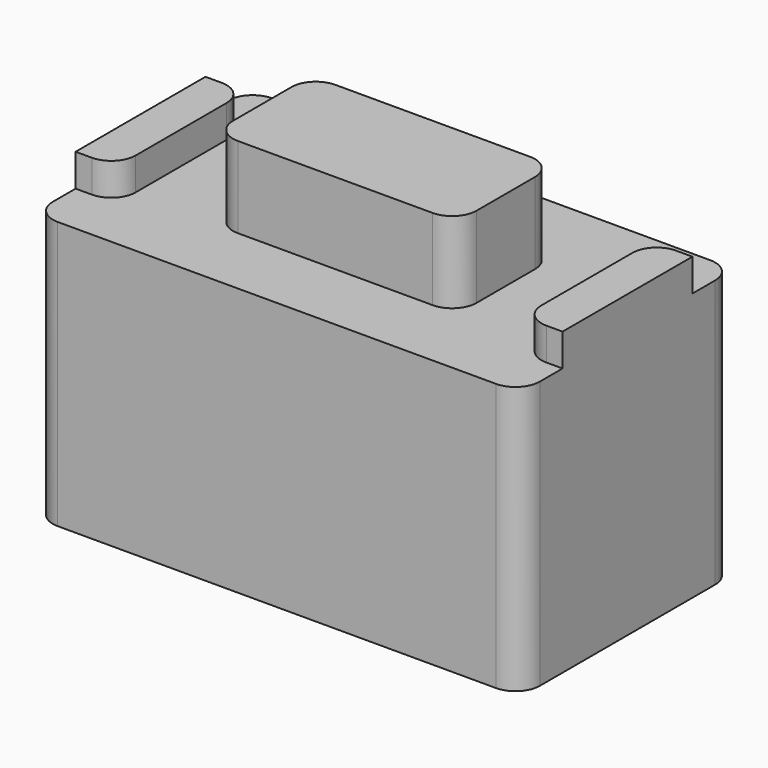
from build123d import *

# Parameters (mm, degrees)
SKETCH_W     = 6
SKETCH_H     = 3.3
PAD_DEPTH    = 3.3
SKETCH001_W  = 3
SKETCH001_H  = 1.5
PAD001_DEPTH = 4.3
SKETCH002_W  = 0.5
SKETCH002_H  = 2
PAD002_DEPTH = 3.7
FILLET_R     = 0.3


with BuildPart() as part:
    # Sketch → Pad (new body)
    with BuildSketch(Plane.XY):
        Rectangle(SKETCH_W, SKETCH_H)
    extrude(amount=PAD_DEPTH)

    # Sketch001 → Pad001 (join)
    with BuildSketch(Plane.XY):
        Rectangle(SKETCH001_W, SKETCH001_H)
    extrude(amount=PAD001_DEPTH)

    # Sketch002 → Pad002 (join)
    with BuildSketch(Plane.XY):
        with Locations((-2.75, 0)):
            Rectangle(SKETCH002_W, SKETCH002_H)
        with Locations((2.75, 0)):
            Rectangle(SKETCH002_W, SKETCH002_H)
    extrude(amount=PAD002_DEPTH)

    # Fillet
    fillet_edges = [part.edges().sort_by_distance(p)[0] for p in [
        (3, -1.65, 1.65),
        (-3, -1.65, 1.65),
        (3, 1.65, 1.65),
        (1.5, -0.75, 3.8),
        (1.5, 0.75, 3.8),
        (2.5, -1, 3.5),
        (-2.5, -1, 3.5),
        (-2.5, 1, 3.5),
        (-1.5, -0.75, 3.8),
        (2.5, 1, 3.5),
        (-1.5, 0.75, 3.8),
        (-3, 1.65, 1.65),
    ]]
    fillet(fillet_edges, radius=FILLET_R)


solid = part.part
